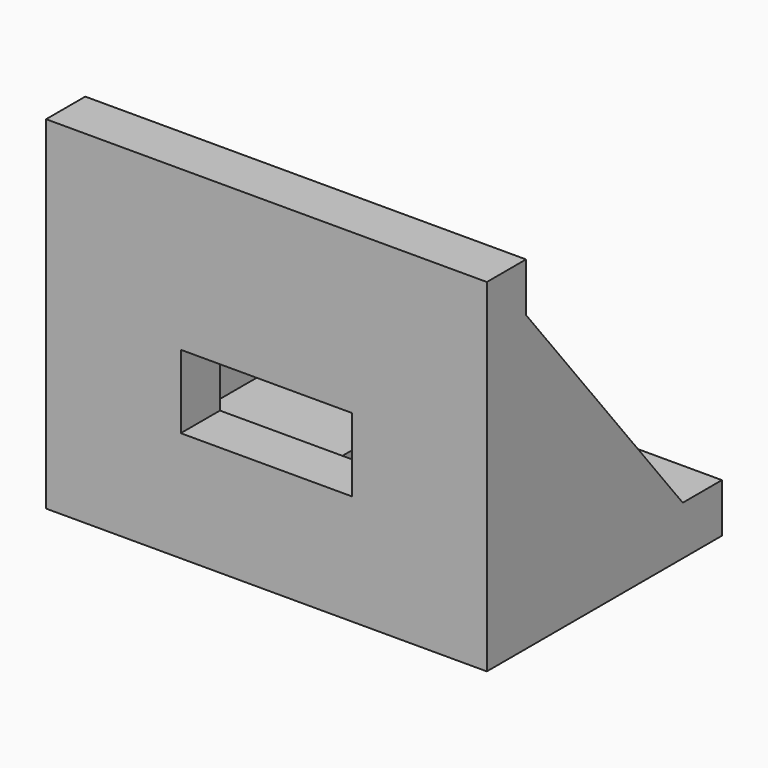
from build123d import *

# Parameters (mm, degrees)
F0_W     = 10
F0_H     = 15
F0_W_2   = 15
F0_H_2   = 10
F1_DEPTH = 45
F2_DEPTH = 35
F3_DEPTH = 17.5
F4_DEPTH = 7.5


with BuildPart() as f1:
    # F0 (on Right) → F1 (new body, symmetric)
    with BuildSketch(Plane.YZ):
        Polygon((0, 22.5), (0, 0), (27.5, 0), (27.5, 10), (10, 10), (10, 22.5), align=None)
        with Locations((5, 30)):
            Rectangle(F0_W, F0_H)
        with Locations((35, 5)):
            Rectangle(F0_W_2, F0_H_2)
        Polygon((0, 70), (0, 37.5), (10, 37.5), (10, 60), (10, 70), align=None)
        Polygon((10, 37.5), (10, 22.5), (10, 10), (27.5, 10), (42.5, 10), (50, 10), (10, 60), align=None)
        Polygon((42.5, 10), (42.5, 0), (60, 0), (60, 10), (50, 10), align=None)
    extrude(amount=F1_DEPTH, both=True)

    # F0 (on Right) → F2 (cut, symmetric)
    with BuildSketch(Plane.YZ):
        Polygon((10, 37.5), (10, 22.5), (10, 10), (27.5, 10), (42.5, 10), (50, 10), (10, 60), align=None)
    extrude(amount=F2_DEPTH, both=True, mode=Mode.SUBTRACT)

    # F0 (on Right) → F3 (cut, symmetric)
    with BuildSketch(Plane.YZ):
        with Locations((5, 30)):
            Rectangle(F0_W, F0_H)
    extrude(amount=F3_DEPTH, both=True, mode=Mode.SUBTRACT)

    # F0 (on Right) → F4 (cut, symmetric)
    with BuildSketch(Plane.YZ):
        with Locations((35, 5)):
            Rectangle(F0_W_2, F0_H_2)
    extrude(amount=F4_DEPTH, both=True, mode=Mode.SUBTRACT)


solid = f1.part
